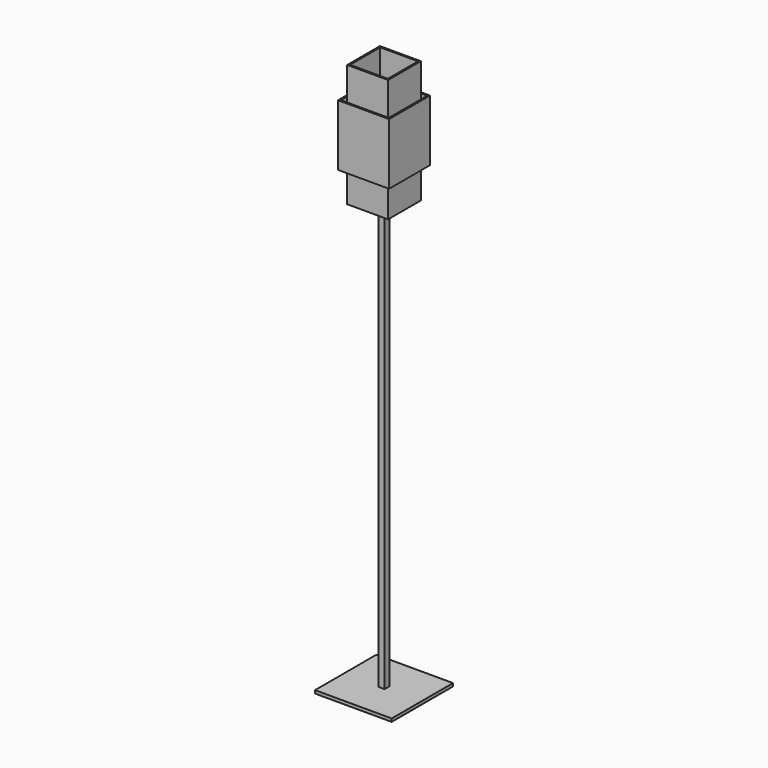
from build123d import *

# Parameters (mm, degrees)
F1_DEPTH      = 125
F1_DEPTH_BACK = 125
F0_W          = 20
F0_H          = 1390
F0_H_2        = 5
F0_H_3        = 95
F2_DEPTH      = 10
F2_DEPTH_BACK = 10
F3_DEPTH      = 83.3
F4_START      = 78.3
F0_W_2        = 11.65
F0_W_3        = 61.65
F0_W_4        = 5
F0_H_4        = 190
F0_W_5        = 51.65
F4_DEPTH      = 5
F5_DEPTH      = 66.6
F6_START      = 61.6
F0_W_6        = 123.3
F6_DEPTH      = 5


with BuildPart() as f1:
    # F0 (on Front) → F1 (new body, two sides)
    with BuildSketch(Plane.XZ) as f1_sk:
        Polygon((10, 10), (-10, 10), (-125, 10), (-125, 0), (125, 0), (125, 10), align=None)
    extrude(amount=F1_DEPTH)
    extrude(f1_sk.sketch, amount=-F1_DEPTH_BACK)

    # F0 (on Front) → F2 (join, two sides)
    with BuildSketch(Plane.XZ) as f2_sk:
        with Locations((0, 705)):
            Rectangle(F0_W, F0_H)
        with Locations((0, 1402.5)):
            Rectangle(F0_W, F0_H_2)
        with Locations((0, 1452.5)):
            Rectangle(F0_W, F0_H_3)
        with Locations((0, 1502.5)):
            Rectangle(F0_W, F0_H_2)
        with Locations((0, 1552.5)):
            Rectangle(F0_W, F0_H_3)
    extrude(amount=F2_DEPTH)
    extrude(f2_sk.sketch, amount=-F2_DEPTH_BACK)


with BuildPart() as f3:
    # F0 (on Front) → F3 (new body)
    with BuildSketch(Plane.XZ):
        Polygon((-78.3, 1700), (-83.3, 1700), (-83.3, 1500), (-78.3, 1500), (-78.3, 1505), (-78.3, 1695), align=None)
    extrude(amount=F3_DEPTH)



with BuildPart() as f3b:
    # F0 (on Front) → F3, piece 2 (new body)
    with BuildSketch(Plane.XZ):
        Polygon((83.3, 1700), (78.3, 1700), (78.3, 1695), (78.3, 1505), (78.3, 1500), (83.3, 1500), align=None)
    extrude(amount=F3_DEPTH)


with BuildPart() as f3_1:
    add(f3.part)

    add(f3b.part)  # F4 merges F3b
    # F0 (on Front) → F4 (join)
    with BuildSketch(Plane.XZ.offset(F4_START)):
        with Locations((72.475, 1697.5)):
            Rectangle(F0_W_2, F0_H_2)
        with Locations((30.825, 1697.5)):
            Rectangle(F0_W_3, F0_H_2)
        with Locations((64.15, 1697.5)):
            Rectangle(F0_W_4, F0_H_2)
        with Locations((-30.825, 1697.5)):
            Rectangle(F0_W_3, F0_H_2)
        with Locations((-72.475, 1697.5)):
            Rectangle(F0_W_2, F0_H_2)
        with Locations((-64.15, 1697.5)):
            Rectangle(F0_W_4, F0_H_2)
        with Locations((-72.475, 1600)):
            Rectangle(F0_W_2, F0_H_4)
        with Locations((-64.15, 1600)):
            Rectangle(F0_W_4, F0_H_4)
        with Locations((64.15, 1600)):
            Rectangle(F0_W_4, F0_H_4)
        with Locations((72.475, 1600)):
            Rectangle(F0_W_2, F0_H_4)
        Polygon((0, 1695), (-61.65, 1695), (-61.65, 1505), (-10, 1505), (-10, 1600), (10, 1600), (10, 1505), (61.65, 1505), (61.65, 1695), align=None)
        with Locations((0, 1552.5)):
            Rectangle(F0_W, F0_H_3)
        with Locations((72.475, 1502.5)):
            Rectangle(F0_W_2, F0_H_2)
        with Locations((64.15, 1502.5)):
            Rectangle(F0_W_4, F0_H_2)
        with Locations((35.825, 1502.5)):
            Rectangle(F0_W_5, F0_H_2)
        with Locations((0, 1502.5)):
            Rectangle(F0_W, F0_H_2)
        with Locations((-35.825, 1502.5)):
            Rectangle(F0_W_5, F0_H_2)
        with Locations((-64.15, 1502.5)):
            Rectangle(F0_W_4, F0_H_2)
        with Locations((-72.475, 1502.5)):
            Rectangle(F0_W_2, F0_H_2)
    extrude(amount=F4_DEPTH)



with BuildPart() as f5:
    # F0 (on Front) → F5 (new body)
    with BuildSketch(Plane.XZ):
        Polygon((61.65, 1795), (61.65, 1700), (66.65, 1700), (66.65, 1800), (61.65, 1800), align=None)
        with Locations((64.15, 1697.5)):
            Rectangle(F0_W_4, F0_H_2)
        with Locations((64.15, 1600)):
            Rectangle(F0_W_4, F0_H_4)
        with Locations((64.15, 1502.5)):
            Rectangle(F0_W_4, F0_H_2)
        Polygon((66.65, 1500), (61.65, 1500), (61.65, 1405), (61.65, 1400), (66.65, 1400), align=None)
    extrude(amount=F5_DEPTH)



with BuildPart() as f5b:
    # F0 (on Front) → F5, piece 2 (new body)
    with BuildSketch(Plane.XZ):
        Polygon((-61.65, 1500), (-66.65, 1500), (-66.65, 1400), (-61.65, 1400), (-61.65, 1405), align=None)
        with Locations((-64.15, 1502.5)):
            Rectangle(F0_W_4, F0_H_2)
        with Locations((-64.15, 1600)):
            Rectangle(F0_W_4, F0_H_4)
        Polygon((-66.65, 1800), (-66.65, 1700), (-61.65, 1700), (-61.65, 1795), (-61.65, 1800), align=None)
        with Locations((-64.15, 1697.5)):
            Rectangle(F0_W_4, F0_H_2)
    extrude(amount=F5_DEPTH)


with BuildPart() as f5_1:
    add(f5.part)

    add(f5b.part)  # F6 merges F5b
    # F0 (on Front) → F6 (join)
    with BuildSketch(Plane.XZ.offset(F6_START)):
        with Locations((0, 1797.5)):
            Rectangle(F0_W_6, F0_H_2)
        Polygon((-61.65, 1795), (-61.65, 1700), (0, 1700), (61.65, 1700), (61.65, 1795), align=None)
        with Locations((30.825, 1697.5)):
            Rectangle(F0_W_3, F0_H_2)
        with Locations((-30.825, 1697.5)):
            Rectangle(F0_W_3, F0_H_2)
        Polygon((0, 1695), (-61.65, 1695), (-61.65, 1505), (-10, 1505), (-10, 1600), (10, 1600), (10, 1505), (61.65, 1505), (61.65, 1695), align=None)
        with Locations((0, 1552.5)):
            Rectangle(F0_W, F0_H_3)
        with Locations((0, 1502.5)):
            Rectangle(F0_W, F0_H_2)
        with Locations((-35.825, 1502.5)):
            Rectangle(F0_W_5, F0_H_2)
        with Locations((35.825, 1502.5)):
            Rectangle(F0_W_5, F0_H_2)
        with Locations((35.825, 1452.5)):
            Rectangle(F0_W_5, F0_H_3)
        with Locations((-35.825, 1452.5)):
            Rectangle(F0_W_5, F0_H_3)
        with Locations((0, 1452.5)):
            Rectangle(F0_W, F0_H_3)
        with Locations((35.825, 1402.5)):
            Rectangle(F0_W_5, F0_H_2)
        with Locations((0, 1402.5)):
            Rectangle(F0_W, F0_H_2)
        with Locations((-35.825, 1402.5)):
            Rectangle(F0_W_5, F0_H_2)
    extrude(amount=F6_DEPTH)


with BuildPart() as f3_2:
    add(f3_1.part)

    add(f5_1.part)  # F7 merges F5
    # F7: F5, F3 across plane
    add(f5_1.part.mirror(Plane.XZ))
    add(f3_1.part.mirror(Plane.XZ))


solid = Compound([f1.part, f3_2.part])
